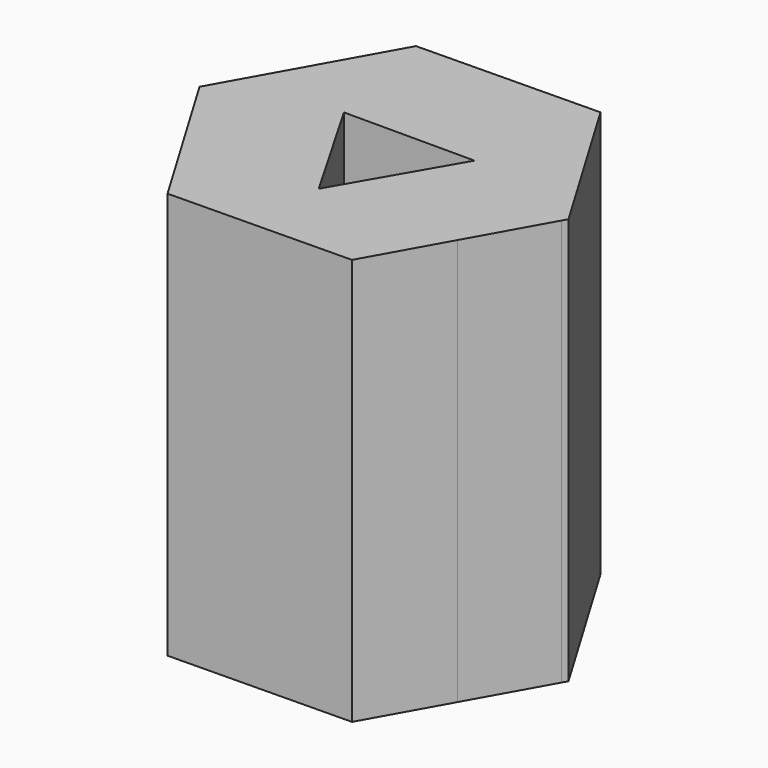
from build123d import *

# Parameters (mm, degrees)
F1_DEPTH = 381


with BuildPart() as f1:
    # F0 (on Top) → F1 (new body)
    with BuildSketch(Plane.XY):
        Polygon((170.9172360993, 2.3657794944), (83.4097929075, 149.201558154), (0, 148.0470275623), (128.2124868238, -74.0235137812), (168.2466239063, -2.4113514218), align=None)
        Polygon((87.5074431918, -146.8357786592), (128.2124868238, -74.0235137812), (-1.9049465394, -74.0235137812), (-128.2124868237, -74.0235137812), (-83.4097929074, -149.2015581539), align=None)
        Polygon((128.2124868238, -74.0235137812), (0, 148.0470275623), (-128.2124868237, -74.0235137812), (-1.9049465394, -74.0235137812), align=None)
        Polygon((59.2502932709, 31.9004687195), (-1.9049465394, -74.0235137812), (-63.0601863501, 31.9004687195), align=None, mode=Mode.SUBTRACT)
        Polygon((0, 148.0470275623), (-87.5074431918, 146.8357786593), (-170.9172360993, -2.3657794944), (-169.7109125441, -4.389966833), (-128.2124868236, -74.0235137811), align=None)
    extrude(amount=F1_DEPTH)


solid = f1.part
